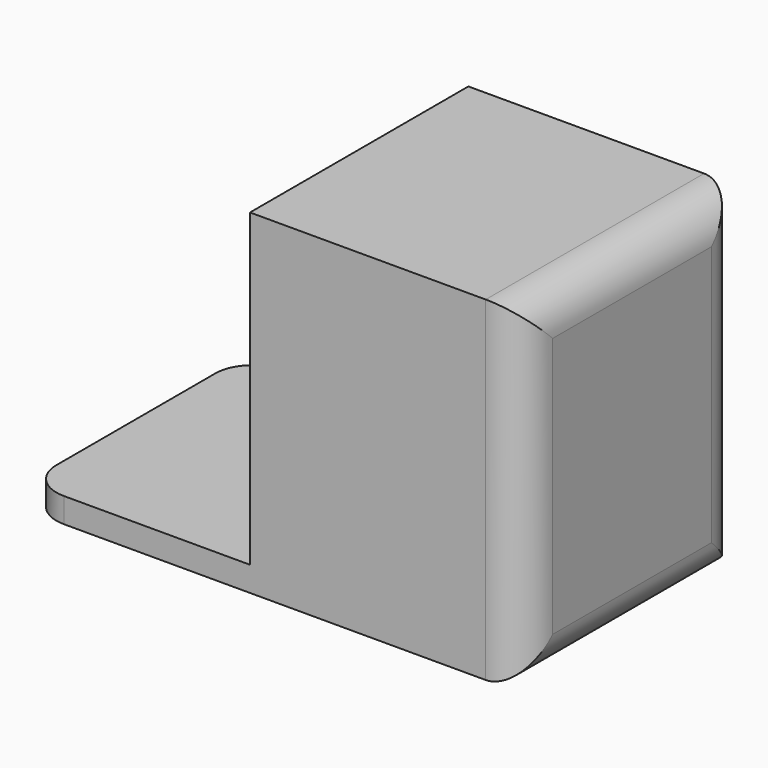
from build123d import *

# Parameters (mm, degrees)
F0_W     = 40
F0_H     = 22
F1_DEPTH = 2
F2_W     = 22
F2_H     = 22
F3_DEPTH = 25
F4_R     = 3


with BuildPart() as f1:
    # F0 (on Top) → F1 (new body)
    with BuildSketch(Plane.XY):
        with Locations((-4.791172, 0.456456)):
            Rectangle(F0_W, F0_H)
    extrude(amount=F1_DEPTH)

    # F2 (on face) → F3 (join)
    with BuildSketch(Plane.XY.offset(2)):
        with Locations((4.208828, 0.456456)):
            Rectangle(F2_W, F2_H)
    extrude(amount=F3_DEPTH)

    # F4
    f4_edges = [f1.edges().sort_by_distance(p)[0] for p in [
        (-24.791172, 11.456456, 1),
        (-24.791172, -10.543544, 1),
        (15.208828, -10.543544, 13.5),
        (15.208828, 0.456456, 0),
        (15.208828, 11.456456, 13.5),
        (15.208828, 0.456456, 27),
    ]]
    fillet(f4_edges, radius=F4_R)


solid = f1.part
